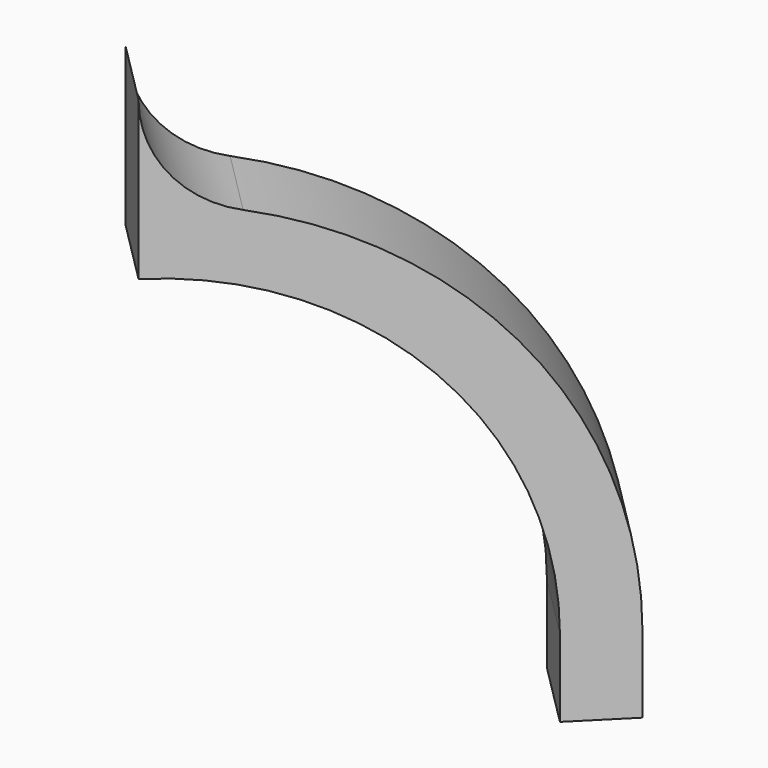
from build123d import *

# Parameters (mm, degrees)
F1_DEPTH = 4.4958
F2_ANGLE = 45


with BuildPart() as f1:
    # F0 (on Front) → F1 (new body)
    with BuildSketch(Plane.XZ):
        with BuildLine():
            Line((16.215168, 3.81), (16.215168, 0))
            Line((16.215168, 0), (19.390168, 0))
            Line((19.390168, 0), (19.390168, 3.81))
            ThreePointArc((19.390168, 3.81), (15.067045, 16.015031), (4.025393, 22.777731))
            ThreePointArc((4.025393, 22.777731), (1.132608, 24.54948), (0, 27.747058))
            Line((0, 27.747058), (0, 23.200168))
            Line((0, 23.200168), (0, 20.025168))
            ThreePointArc((0, 20.025168), (11.465855, 15.275855), (16.215168, 3.81))
        make_face()
    extrude(amount=F1_DEPTH)


with BuildPart() as f1_1:
    # F2: moved
    add(f1.part.rotate(Axis((0, -4.4958, 23.886113), (0, 0, 1)), F2_ANGLE))


solid = f1_1.part
